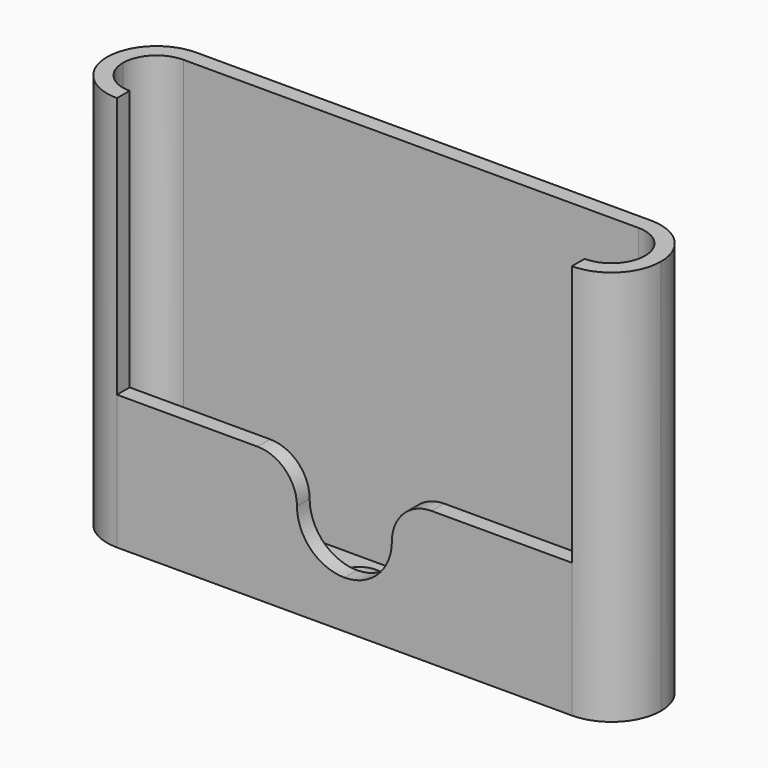
from build123d import *

# Parameters (mm, degrees)
F3_DEPTH = 50
F4_DEPTH = 2
F5_DEPTH = 2


with BuildPart() as f3:
    # F0 (on Top) → F3 (new body)
    with BuildSketch(Plane.XY):
        with BuildLine():
            ThreePointArc((35, 0), (33.169417, 4.419417), (28.75, 6.25))
            Line((28.75, 6.25), (-28.75, 6.25))
            ThreePointArc((-28.75, 6.25), (-33.169417, 4.419417), (-35, 0))
            ThreePointArc((-35, 0), (-33.169417, -4.419417), (-28.75, -6.25))
            Line((-28.75, -6.25), (-28.75, -4.25))
            ThreePointArc((-28.75, -4.25), (-31.755204, -3.005204), (-33, 0))
            ThreePointArc((-33, 0), (-31.755204, 3.005204), (-28.75, 4.25))
            Line((-28.75, 4.25), (28.75, 4.25))
            ThreePointArc((28.75, 4.25), (31.755204, 3.005204), (33, 0))
            ThreePointArc((33, 0), (31.755204, -3.005204), (28.75, -4.25))
            Line((28.75, -4.25), (28.75, -6.25))
            ThreePointArc((28.75, -6.25), (33.169417, -4.419417), (35, 0))
        make_face()
    extrude(amount=F3_DEPTH)

    # F0 (on Top) → F4 (join)
    with BuildSketch(Plane.XY):
        with BuildLine():
            Line((-28.75, -4.25), (28.75, -4.25))
            ThreePointArc((28.75, -4.25), (31.755204, -3.005204), (33, 0))
            ThreePointArc((33, 0), (31.755204, 3.005204), (28.75, 4.25))
            Line((28.75, 4.25), (-28.75, 4.25))
            ThreePointArc((-28.75, 4.25), (-31.755204, 3.005204), (-33, 0))
            ThreePointArc((-33, 0), (-31.755204, -3.005204), (-28.75, -4.25))
        make_face()
        with BuildLine():
            Line((-26, 3), (-13, 3))
            ThreePointArc((-13, 3), (-11.232233, 2.267767), (-10.5, 0.5))
            Line((-10.5, 0.5), (-10.5, -0.5))
            ThreePointArc((-10.5, -0.5), (-11.232233, -2.267767), (-13, -3))
            Line((-13, -3), (-26, -3))
            ThreePointArc((-26, -3), (-27.767767, -2.267767), (-28.5, -0.5))
            Line((-28.5, -0.5), (-28.5, 0.5))
            ThreePointArc((-28.5, 0.5), (-27.767767, 2.267767), (-26, 3))
        make_face(mode=Mode.SUBTRACT)
        with BuildLine():
            Line((3.5, -3), (-3.5, -3))
            ThreePointArc((-3.5, -3), (-5.267767, -2.267767), (-6, -0.5))
            Line((-6, -0.5), (-6, 0.5))
            ThreePointArc((-6, 0.5), (-5.267767, 2.267767), (-3.5, 3))
            Line((-3.5, 3), (3.5, 3))
            ThreePointArc((3.5, 3), (5.267767, 2.267767), (6, 0.5))
            Line((6, 0.5), (6, -0.5))
            ThreePointArc((6, -0.5), (5.267767, -2.267767), (3.5, -3))
        make_face(mode=Mode.SUBTRACT)
        with BuildLine():
            ThreePointArc((10.5, 0.5), (11.232233, 2.267767), (13, 3))
            Line((13, 3), (26, 3))
            ThreePointArc((26, 3), (27.767767, 2.267767), (28.5, 0.5))
            Line((28.5, 0.5), (28.5, -0.5))
            ThreePointArc((28.5, -0.5), (27.767767, -2.267767), (26, -3))
            Line((26, -3), (13, -3))
            ThreePointArc((13, -3), (11.232233, -2.267767), (10.5, -0.5))
            Line((10.5, -0.5), (10.5, 0.5))
        make_face(mode=Mode.SUBTRACT)
    extrude(amount=F4_DEPTH)

    # F2 (on face) → F5 (join)
    with BuildSketch(Plane.XZ.offset(6.25)):
        with BuildLine():
            Line((-28.75, 17), (-28.75, 0))
            Line((-28.75, 0), (28.75, 0))
            Line((28.75, 0), (28.75, 17))
            Line((28.75, 17), (11, 17))
            ThreePointArc((11, 17), (7.464466, 15.535534), (6, 12))
            ThreePointArc((6, 12), (4.242641, 7.757359), (0, 6))
            ThreePointArc((0, 6), (-4.242641, 7.757359), (-6, 12))
            ThreePointArc((-6, 12), (-7.464466, 15.535534), (-11, 17))
            Line((-11, 17), (-28.75, 17))
        make_face()
    extrude(amount=-F5_DEPTH)


solid = f3.part
